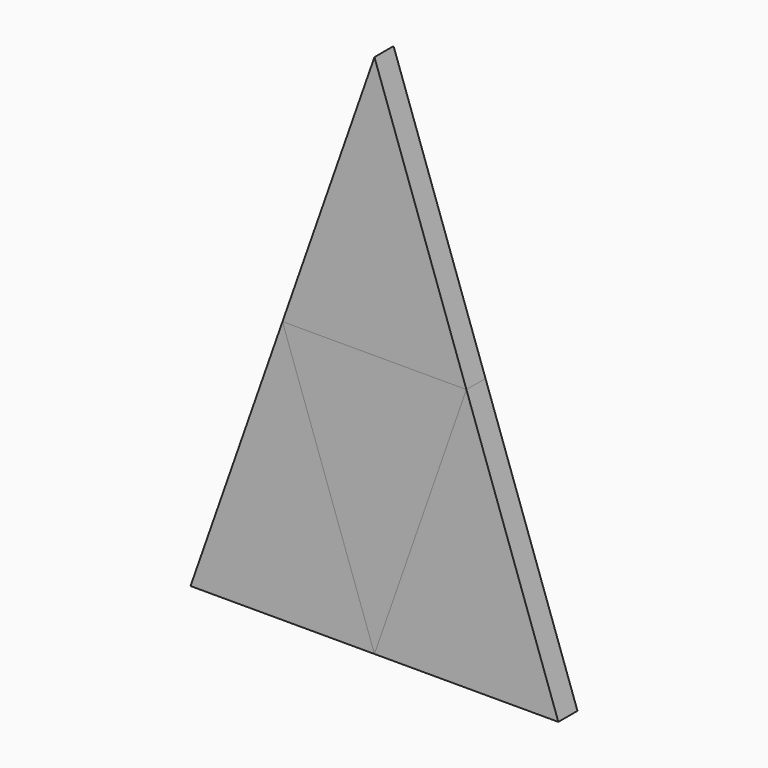
from build123d import *

# Parameters (mm, degrees)
F1_DEPTH = 2.54
F2_DEPTH = 2.54


with BuildPart() as f1:
    # F0 (on Front) → F1 (new body)
    with BuildSketch(Plane.XZ):
        Polygon((-23.068134, 0), (-32.841739, -27.924582), (-13.29453, -27.924582), align=None)
        Polygon((-32.841739, -27.924582), (-42.615343, -55.849165), (-23.068134, -55.849165), align=None)
        Polygon((-13.29453, -27.924582), (-23.068134, -55.849165), (-3.520926, -55.849165), align=None)
    extrude(amount=F1_DEPTH)


with BuildPart() as f2:
    # F0 (on Front) → F2 (new body)
    with BuildSketch(Plane.XZ):
        Polygon((-32.841739, -27.924582), (-23.068134, -55.849165), (-13.29453, -27.924582), align=None)
    extrude(amount=F2_DEPTH)


solid = Compound([f1.part, f2.part])
